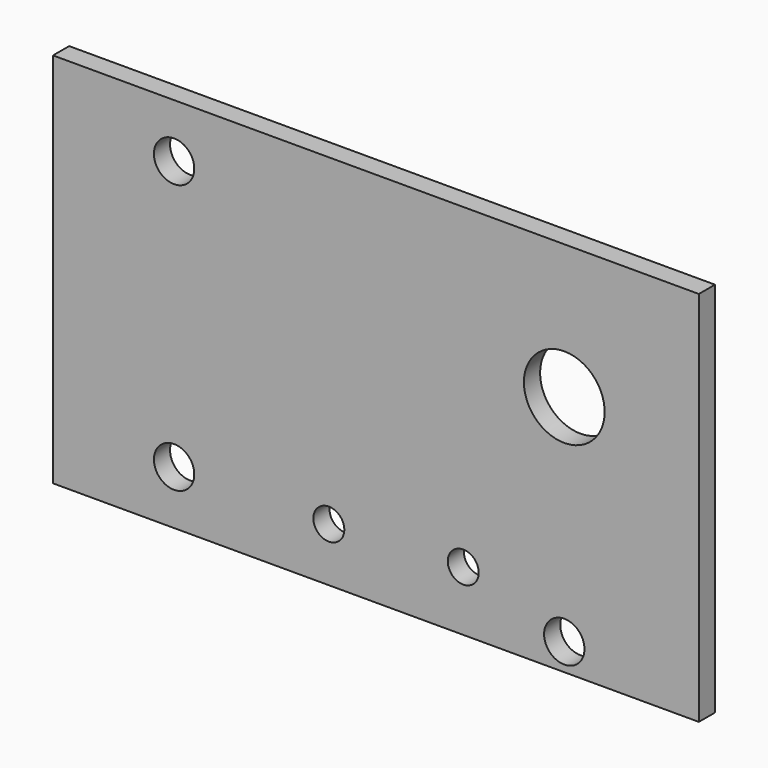
from build123d import *

# Parameters (mm, degrees)
F0_W      = 40
F0_H      = 28
F1_DEPTH  = 1.5
F3_R      = 1.5
F4_DEPTH  = 1.501
F5_R      = 1.15
F6_DEPTH  = 1.501
F7_W      = 1.5
F7_H      = 28
F8_DEPTH  = 8
F9_R      = 3
F10_DEPTH = 1.501


with BuildPart() as f1:
    # F0 (on Front) → F1 (new body)
    with BuildSketch(Plane.XZ):
        with Locations((20, -14)):
            Rectangle(F0_W, F0_H)
    extrude(amount=F1_DEPTH)

    # F3 (on face) → F4 (cut, through all)
    with BuildSketch(Plane(origin=(0, 0, 0), x_dir=(-1, 0, 0), z_dir=(0, 1, 0))):
        with Locations((-38, -26)):
            Circle(F3_R)
        with Locations((-9, -24)):
            Circle(F3_R)
        with Locations((-9, -4)):
            Circle(F3_R)
    extrude(amount=-F4_DEPTH, mode=Mode.SUBTRACT)

    # F5 (on face) → F6 (cut, through all)
    with BuildSketch(Plane(origin=(0, 0, 0), x_dir=(-1, 0, 0), z_dir=(0, 1, 0))):
        with Locations((-20.5, -24)):
            Circle(F5_R)
        with Locations((-30.490284, -23.559283)):
            Circle(F5_R)
    extrude(amount=-F6_DEPTH, mode=Mode.SUBTRACT)

    # F7 (on face) → F8 (join)
    with BuildSketch(Plane.YZ.offset(40)):
        with Locations((-0.75, -14)):
            Rectangle(F7_W, F7_H)
    extrude(amount=F8_DEPTH)

    # F9 (on face) → F10 (cut, through all)
    with BuildSketch(Plane(origin=(0, 0, 0), x_dir=(-1, 0, 0), z_dir=(0, 1, 0))):
        with Locations((-38, -10)):
            Circle(F9_R)
    extrude(amount=-F10_DEPTH, mode=Mode.SUBTRACT)


solid = f1.part
